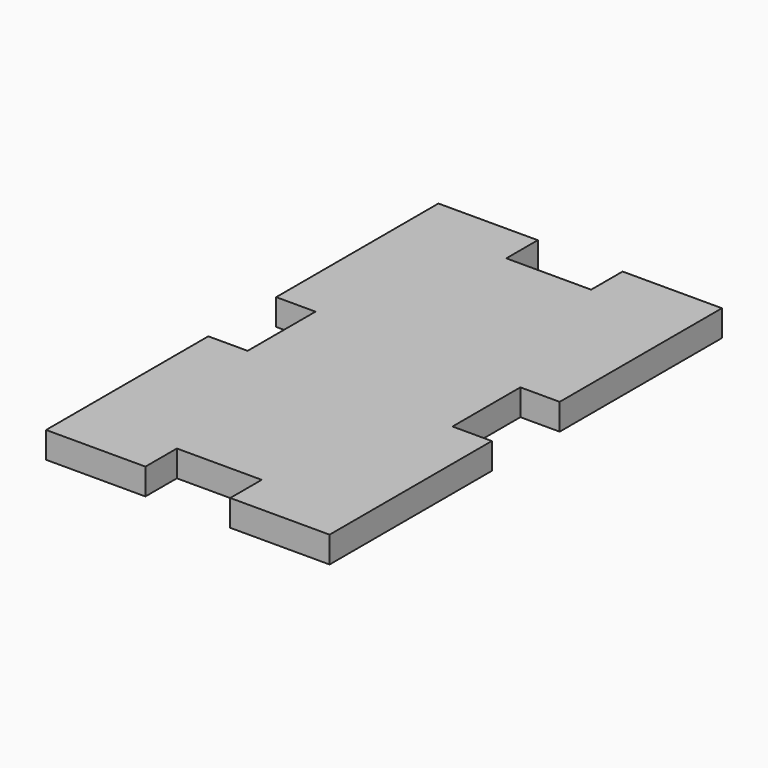
from build123d import *

# Parameters (mm, degrees)
F0_W     = 14.5
F0_H     = 9.5
F0_W_2   = 9.5
F0_H_2   = 39.5
F1_DEPTH = 6.35


with BuildPart() as f1:
    # F0 (on Top) → F1 (new body)
    with BuildSketch(Plane.XY):
        with Locations((-17.5, 54.5)):
            Rectangle(F0_W, F0_H)
        with Locations((-29.5, 54.5)):
            Rectangle(F0_W_2, F0_H)
        with Locations((-29.5, 30)):
            Rectangle(F0_W_2, F0_H_2)
        with Locations((17.5, 54.5)):
            Rectangle(F0_W, F0_H)
        with Locations((29.5, 54.5)):
            Rectangle(F0_W_2, F0_H)
        with Locations((29.5, 30)):
            Rectangle(F0_W_2, F0_H_2)
        with Locations((29.5, -30)):
            Rectangle(F0_W_2, F0_H_2)
        with Locations((29.5, -54.5)):
            Rectangle(F0_W_2, F0_H)
        with Locations((17.5, -54.5)):
            Rectangle(F0_W, F0_H)
        with Locations((-17.5, -54.5)):
            Rectangle(F0_W, F0_H)
        with Locations((-29.5, -54.5)):
            Rectangle(F0_W_2, F0_H)
        with Locations((-29.5, -30)):
            Rectangle(F0_W_2, F0_H_2)
        Polygon((-10.25, 49.75), (-24.75, 49.75), (-24.75, 10.25), (-24.75, -10.25), (-24.75, -49.75), (-10.25, -49.75), (10.25, -49.75), (24.75, -49.75), (24.75, -10.25), (24.75, 10.25), (24.75, 49.75), (10.25, 49.75), align=None)
    extrude(amount=F1_DEPTH)


solid = f1.part
